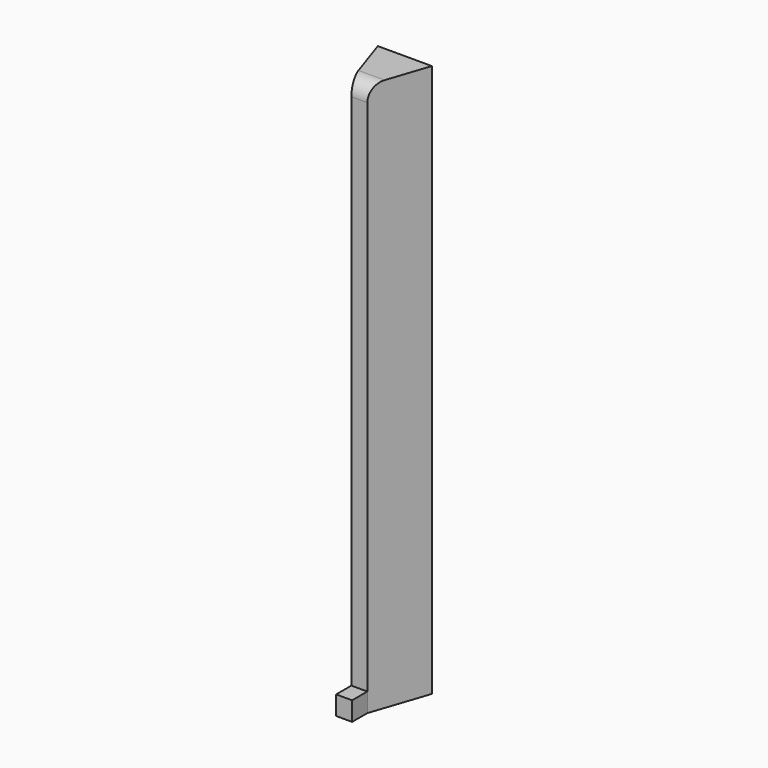
from build123d import *

# Parameters (mm, degrees)
F1_DEPTH = 184.404
F0_W     = 5.334
F0_H     = 6.35
F2_DEPTH = 6.35
F3_R     = 5.08


with BuildPart() as f1:
    # F0 (on Top) → F1 (new body)
    with BuildSketch(Plane.XY):
        Polygon((9.017, -42.8625), (-9.017, -42.8625), (-2.667, -61.831036), (2.667, -61.831036), align=None)
    extrude(amount=F1_DEPTH)

    # F0 (on Top) → F2 (join)
    with BuildSketch(Plane.XY):
        with Locations((0, -65.006036)):
            Rectangle(F0_W, F0_H)
    extrude(amount=F2_DEPTH)

    # F3
    f3_edges = [f1.edges().sort_by_distance(p)[0] for p in [
        (0, -61.831036, 184.404),
    ]]
    fillet(f3_edges, radius=F3_R)


solid = f1.part
